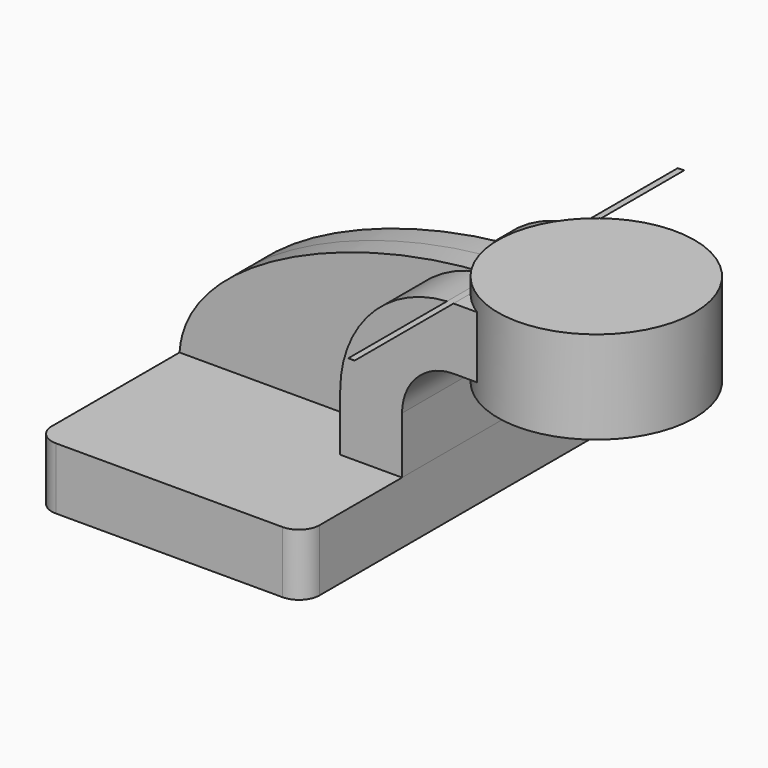
from build123d import *

# Parameters (mm, degrees)
F1_DEPTH = 63.5
F0_W     = 20.5100586428
F0_H     = 19.05
F2_DEPTH = 25.4
F3_DEPTH = 7.9375
F5_R     = 6.35


with BuildPart() as f1:
    # F0 (on Front) → F1 (new body, symmetric)
    with BuildSketch(Plane.XZ):
        with BuildLine():
            ThreePointArc((57.15, 61.9252), (56.141801459, 61.9106448654), (55.1344432597, 61.8669915935))
            add(Edge.make_bspline(
                [(57.15, 61.9252), (56.480946151, 61.9111016232), (55.8090107276, 61.8916796175), (55.1344432597, 61.8669915935)],
                knots=[0, 0, 0, 0, 1.7546314336, 1.7546314336, 1.7546314336, 1.7546314336], degree=3))
        make_face()
    extrude(amount=F1_DEPTH, both=True)


with BuildPart() as f1b:
    # F0 (on Front) → F1, piece 2 (new body, symmetric)
    with BuildSketch(Plane.XZ):
        Polygon((-41.275, 9.525), (-41.275, -9.525), (41.275, -9.525), (41.275, 9.525), (22.225, 9.525), align=None)
    extrude(amount=F1_DEPTH, both=True)

    # F5
    f5_edges = [f1b.edges().sort_by_distance(p)[0] for p in [
        (-41.275, -63.5, 0),
        (41.275, -63.5, 0),
        (41.275, 63.5, 0),
        (-41.275, 63.5, 0),
    ]]
    fillet(f5_edges, radius=F5_R)


with BuildPart() as f2:
    # F0 (on Front) → F2 (new body, symmetric)
    with BuildSketch(Plane.XZ):
        with BuildLine():
            Line((22.225, 9.525), (41.275, 9.525))
            Line((41.275, 9.525), (41.275, 27.0002))
            ThreePointArc((41.275, 27.0002), (45.9246798487, 38.2255201513), (57.15, 42.8752))
            Line((57.15, 42.8752), (60.325, 42.8752))
            Line((60.325, 42.8752), (60.325, 61.9252))
            Line((60.325, 61.9252), (57.15, 61.9252))
            add(Edge.make_bspline(
                [(57.15, 61.9252), (56.480946151, 61.9111016232), (55.8090107276, 61.8916796175), (55.1344432597, 61.8669915935)],
                knots=[0, 0, 0, 0, 1.7546314336, 1.7546314336, 1.7546314336, 1.7546314336], degree=3))
            ThreePointArc((55.1344432597, 61.8669915935), (31.7516836763, 50.9727082735), (22.225, 27.0002))
            Line((22.225, 27.0002), (22.225, 9.525))
        make_face()
        with Locations((70.5800293214, 52.4002)):
            Rectangle(F0_W, F0_H)
    extrude(amount=F2_DEPTH, both=True)


with BuildPart() as f3:
    # F0 (on Front) → F3 (new body, symmetric)
    with BuildSketch(Plane.XZ):
        with BuildLine():
            add(Edge.make_bspline(
                [(55.1344432597, 61.8669915935), (12.9411290835, 60.3227879328), (-39.5496361419, 38.1761346473), (-41.275, 9.525)],
                knots=[1.7546314336, 1.7546314336, 1.7546314336, 1.7546314336, 111.5045361635, 111.5045361635, 111.5045361635, 111.5045361635], degree=3))
            Line((-41.275, 9.525), (22.225, 9.525))
            Line((22.225, 9.525), (22.225, 27.0002))
            ThreePointArc((22.225, 27.0002), (31.7516836763, 50.9727082735), (55.1344432597, 61.8669915935))
        make_face()
    extrude(amount=F3_DEPTH, both=True)


with BuildPart() as f4:
    # F0 (on Front) → F4 (revolve)
    with BuildSketch(Plane.XZ):
        Polygon((80.8350586428, 66.675), (80.8350586428, 61.9252), (80.8350586428, 42.8752), (80.8350586428, 38.1), (111.125, 38.1), (111.125, 66.675), align=None)
    revolve(axis=Axis((80.8350586428, 0, 52.3875), (0, 0, 1)))


solid = Compound([f1.part, f1b.part, f2.part, f3.part, f4.part])
